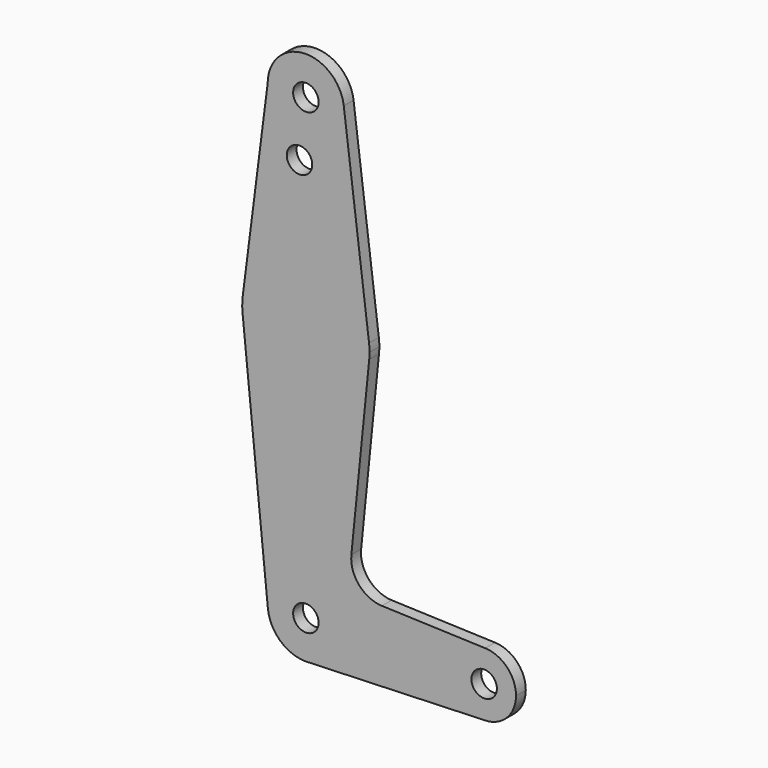
from build123d import *

# Parameters (mm, degrees)
F0_R     = 3.175
F1_DEPTH = 3.048


with BuildPart() as f1:
    # F0 (on Front) → F1 (new body)
    with BuildSketch(Plane.XZ):
        with BuildLine():
            ThreePointArc((-9.525, 114.3), (0, 104.775), (9.525, 114.3))
            ThreePointArc((9.525, 114.3), (9.506305, 114.896483), (9.450293, 115.490625))
            ThreePointArc((9.450293, 115.490625), (-0.596483, 123.806305), (-9.525, 114.3))
        make_face()
        with Locations((0, 114.3)):
            Circle(F0_R, mode=Mode.SUBTRACT)
        with BuildLine():
            ThreePointArc((9.450293, 115.490625), (9.506305, 114.896483), (9.525, 114.3))
            ThreePointArc((9.525, 114.3), (0, 104.775), (-9.525, 114.3))
            Line((-9.525, 114.3), (-15.747457, 65.508289))
            ThreePointArc((-15.747457, 65.508289), (0.012053, 79.374995), (15.750488, 65.484375))
            Line((15.750488, 65.484375), (9.450293, 115.490625))
        make_face()
        with Locations((-1.5875, 100.0252)):
            Circle(F0_R, mode=Mode.SUBTRACT)
        with BuildLine():
            ThreePointArc((15.875, 63.5), (15.843841, 64.494139), (15.750488, 65.484375))
            ThreePointArc((15.750488, 65.484375), (0.012053, 79.374995), (-15.747457, 65.508289))
            ThreePointArc((-15.747457, 65.508289), (-15.873588, 63.711757), (-15.795426, 61.9125))
            ThreePointArc((-15.795426, 61.9125), (0, 47.625), (15.795426, 61.9125))
            ThreePointArc((15.795426, 61.9125), (15.855094, 62.705253), (15.875, 63.5))
        make_face()
        with BuildLine():
            ThreePointArc((15.795426, 61.9125), (0, 47.625), (-15.795426, 61.9125))
            Line((-15.795426, 61.9125), (-9.477255, -0.9525))
            ThreePointArc((-9.477255, -0.9525), (-0.476848, 9.513056), (9.525, 0))
            ThreePointArc((9.525, 0), (6.97129, -6.490511), (0.67949, -9.500732))
            Line((0.67949, -9.500732), (44.45, -7.9375))
            ThreePointArc((44.45, -7.9375), (36.513756, 0.141225), (44.732405, 7.932475))
            Line((44.732405, 7.932475), (18.968328, 8.849706))
            ThreePointArc((18.968328, 8.849706), (13.261204, 11.567463), (11.340836, 17.589892))
            Line((11.340836, 17.589892), (15.795426, 61.9125))
        make_face()
        with BuildLine():
            ThreePointArc((9.525, 0), (-0.476848, 9.513056), (-9.477255, -0.9525))
            ThreePointArc((-9.477255, -0.9525), (-6.389564, -7.063929), (0, -9.525))
            Line((0, -9.525), (0.67949, -9.500732))
            ThreePointArc((0.67949, -9.500732), (6.97129, -6.490511), (9.525, 0))
        make_face()
        Circle(F0_R, mode=Mode.SUBTRACT)
        with BuildLine():
            Line((0.67949, -9.500732), (0, -9.525))
            ThreePointArc((0, -9.525), (0.339962, -9.518931), (0.67949, -9.500732))
        make_face()
        with BuildLine():
            ThreePointArc((52.3875, 0), (50.161633, 5.51191), (44.732405, 7.932475))
            ThreePointArc((44.732405, 7.932475), (36.513756, 0.141225), (44.45, -7.9375))
            ThreePointArc((44.45, -7.9375), (50.06266, -5.61266), (52.3875, 0))
        make_face()
        with Locations((44.45, 0)):
            Circle(F0_R, mode=Mode.SUBTRACT)
    extrude(amount=F1_DEPTH)


solid = f1.part
